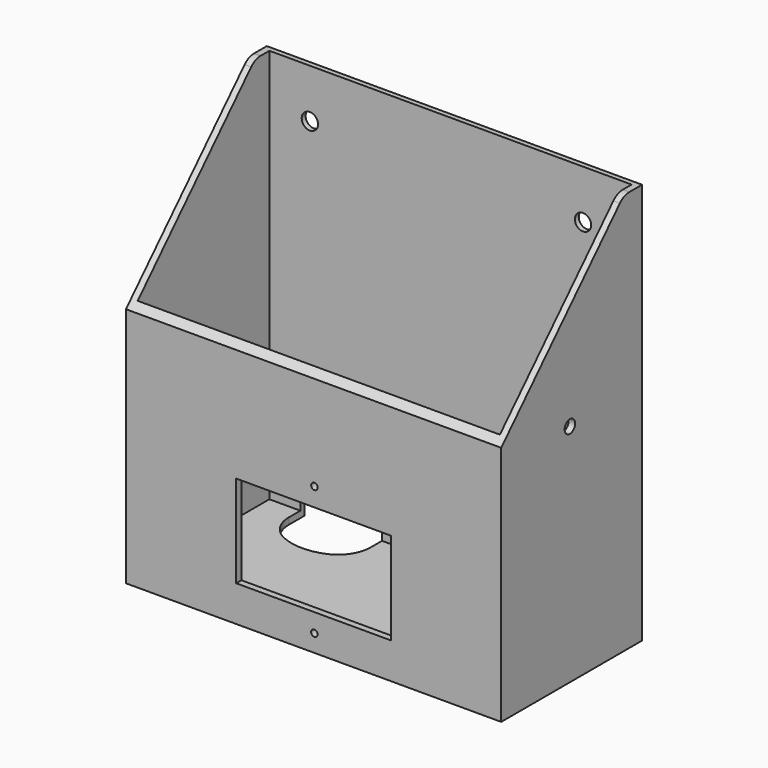
from build123d import *

# Parameters (mm, degrees)
F1_DEPTH  = 115
F3_START  = -2
F2_W      = 111
F2_H      = 50.45
F3_DEPTH  = 173.4
F4_W      = 47.4
F4_H      = 28.25
F4_R      = 1
F5_DEPTH  = 25
F7_DEPTH  = 2
F8_R      = 2.5
F9_DEPTH  = 5.7
F10_R     = 2
F11_DEPTH = 25
F12_R     = 5
F14_DEPTH = 8.7
F15_R     = 10


with BuildPart() as f1:
    # F0 (on Right) → F1 (new body)
    with BuildSketch(Plane.YZ):
        Polygon((-46.95, 9.6120529463), (-46.95, -64.3379470537), (7, -64.3379470537), (7, 30.95759285), (7, 58.6620529463), (0, 58.6620529463), align=None)
    extrude(amount=F1_DEPTH)

    # F2 (on face) → F3 (cut)
    with BuildSketch(Plane(origin=(0, 0, -64.3379470537), x_dir=(1, 0, 0), z_dir=(0, 0, -1)).offset(F3_START)):
        with Locations((57.5, 19.725)):
            Rectangle(F2_W, F2_H)
    extrude(amount=-F3_DEPTH, mode=Mode.SUBTRACT)

    # F4 (on face) → F5 (cut)
    with BuildSketch(Plane.XZ.offset(46.95)):
        with Locations((57.5, -39.2129470537)):
            Rectangle(F4_W, F4_H)
        with Locations((57.75, -19.4129470537)):
            Circle(F4_R)
        with Locations((57.75, -59.0129470537)):
            Circle(F4_R)
    extrude(amount=-F5_DEPTH, mode=Mode.SUBTRACT)

    # F6 (on face) → F7 (cut)
    with BuildSketch(Plane(origin=(0, 7, 0), x_dir=(-1, 0, 0), z_dir=(0, 1, 0))):
        with BuildLine():
            Line((-36.4904825576, -54.8379470537), (-36.4904825576, -62.3379470537))
            Line((-36.4904825576, -62.3379470537), (-11.4904825576, -62.3379470537))
            Line((-11.4904825576, -62.3379470537), (-11.4904825576, -54.8379470537))
            ThreePointArc((-11.4904825576, -54.8379470537), (-23.9904825576, -42.3379470537), (-36.4904825576, -54.8379470537))
        make_face()
    extrude(amount=-F7_DEPTH, mode=Mode.SUBTRACT)

    # F8 (on face) → F9 (cut)
    with BuildSketch(Plane(origin=(0, 7, 0), x_dir=(-1, 0, 0), z_dir=(0, 1, 0))):
        with Locations((-98.1, 43.6620529463)):
            Circle(F8_R)
        with Locations((-14.4, 43.6620529463)):
            Circle(F8_R)
    extrude(amount=-F9_DEPTH, mode=Mode.SUBTRACT)

    # F10 (on face) → F11 (cut)
    with BuildSketch(Plane.YZ.offset(115)):
        with Locations((-20.65, 4.6679739505)):
            Circle(F10_R)
    extrude(amount=-F11_DEPTH, mode=Mode.SUBTRACT)

    # F12
    f12_edges = [f1.edges().sort_by_distance(p)[0] for p in [
        (1, 0, 58.662053),
        (114, 0, 58.662053),
    ]]
    fillet(f12_edges, radius=F12_R)

    # F13 (on face) → F14 (cut)
    with BuildSketch(Plane(origin=(0, 0, -64.3379470537), x_dir=(1, 0, 0), z_dir=(0, 0, -1))):
        with BuildLine():
            Line((11.490044184, 3.5827266984), (11.490044184, -7))
            Line((11.490044184, -7), (36.4903211594, -7))
            Line((36.4903211594, -7), (36.4903211594, 3.5827266984))
            ThreePointArc((36.4903211594, 3.5827266984), (23.9901826717, 9.3848176292), (11.490044184, 3.5827266984))
        make_face()
    extrude(amount=-F14_DEPTH, mode=Mode.SUBTRACT)

    # F15
    f15_edges = [f1.edges().sort_by_distance(p)[0] for p in [
        (36.490321, -3.582727, -63.337947),
        (11.490044, -3.582727, -63.337947),
    ]]
    fillet(f15_edges, radius=F15_R)


solid = f1.part
